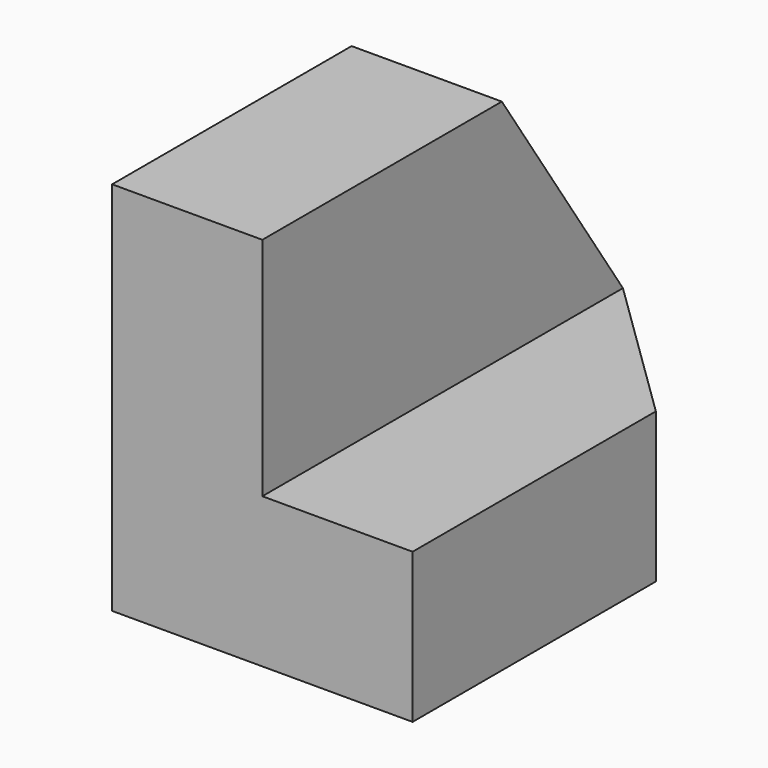
from build123d import *

# Parameters (mm, degrees)
F0_W     = 38.1
F0_H     = 19.0850998387
F0_H_2   = 12.6649001613
F1_DEPTH = 25.4
F2_W     = 38.1
F2_H     = 19.0850998387
F3_DEPTH = 12.7
F5_DEPTH = 12.6659001613
F7_DEPTH = 12.701


with BuildPart() as f1:
    # F0 (on Right) → F1 (new body)
    with BuildSketch(Plane.YZ):
        with Locations((-44.250313069, 22.2074500807)):
            Rectangle(F0_W, F0_H)
        with Locations((-44.250313069, 6.3324500807)):
            Rectangle(F0_W, F0_H_2)
    extrude(amount=F1_DEPTH)

    # F2 (on face) → F3 (cut)
    with BuildSketch(Plane.YZ.offset(25.4)):
        with Locations((-44.250313069, 22.2074500807)):
            Rectangle(F2_W, F2_H)
    extrude(amount=-F3_DEPTH, mode=Mode.SUBTRACT)

    # F4 (on face) → F5 (cut, through all)
    with BuildSketch(Plane.XY.offset(12.6649001613)):
        Polygon((25.4, -37.592638284), (25.4, -25.200313069), (12.7, -25.200313069), align=None)
    extrude(amount=-F5_DEPTH, mode=Mode.SUBTRACT)

    # F6 (on face) → F7 (cut, through all)
    with BuildSketch(Plane.YZ.offset(12.7)):
        Polygon((-25.200313069, 12.6649001613), (-25.200313069, 31.75), (-37.9947014153, 31.75), align=None)
    extrude(amount=-F7_DEPTH, mode=Mode.SUBTRACT)


solid = f1.part
